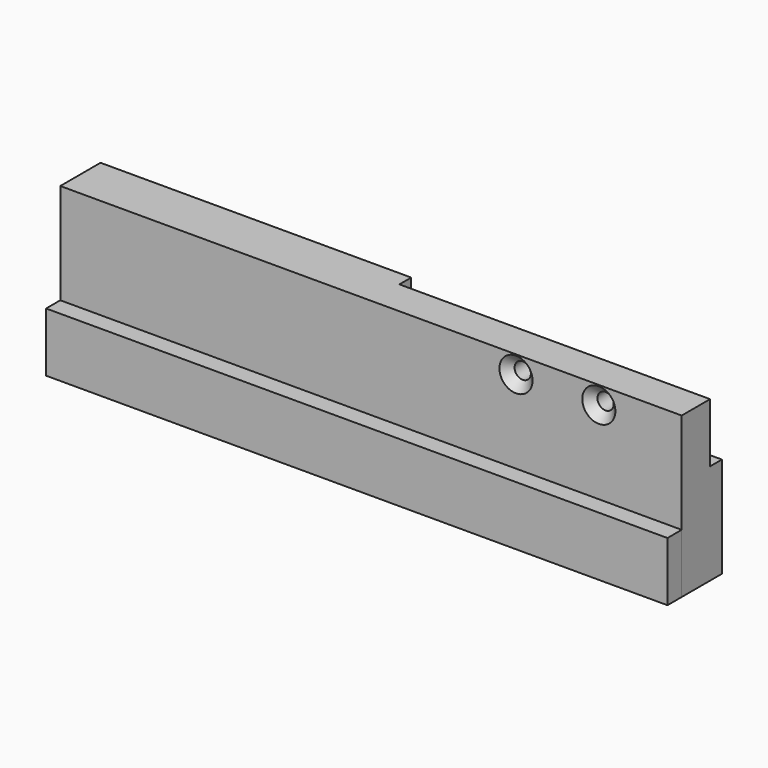
from build123d import *

# Parameters (mm, degrees)
F0_W           = 210
F0_H           = 54
F1_DEPTH       = 12
F3_DEPTH       = 5
F5_D           = 5.5
F5_CSINK_D     = 11.2
F5_CSINK_ANGLE = 90
F6_W           = 210
F6_H           = 20
F7_DEPTH       = 6


with BuildPart() as f1:
    # F0 (on Front) → F1 (new body)
    with BuildSketch(Plane.XZ):
        Rectangle(F0_W, F0_H)
    extrude(amount=F1_DEPTH)

    # F2 (on face) → F3 (join)
    with BuildSketch(Plane(origin=(0, 0, 0), x_dir=(-1, 0, 0), z_dir=(0, 1, 0))):
        Polygon((105, 27), (0, 27), (0, 7), (-105, 7), (-105, -27), (105, -27), align=None)
    extrude(amount=F3_DEPTH)

    # F5 (through all)
    with Locations(Plane.XZ.offset(12)):
        with Locations((49, 21), (77, 21)):
            CounterSinkHole(F5_D / 2, F5_CSINK_D / 2, counter_sink_angle=F5_CSINK_ANGLE)


with BuildPart() as f7:
    # F6 (on face) → F7 (new body)
    with BuildSketch(Plane.XZ.offset(12)):
        with Locations((0, -17)):
            Rectangle(F6_W, F6_H)
    extrude(amount=F7_DEPTH)


solid = Compound([f1.part, f7.part])
